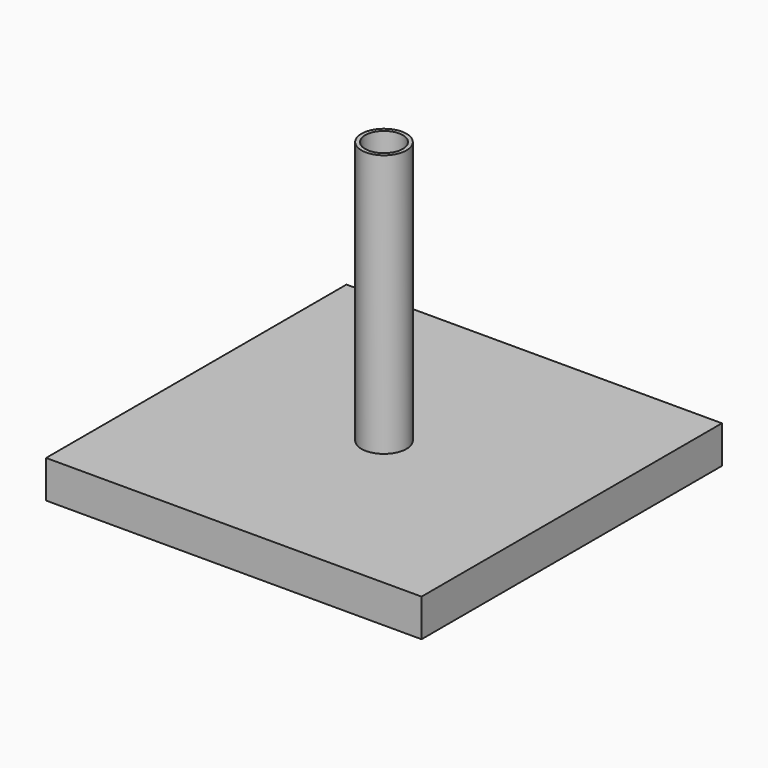
from build123d import *

# Parameters (mm, degrees)
F1_DEPTH = 50
F0_W     = 1
F0_H     = 70


with BuildPart() as f1:
    # F0 (on Front) → F1 (new body, symmetric)
    with BuildSketch(Plane.XZ):
        Polygon((-6, -30), (-50, -30), (-50, -40), (50, -40), (50, -30), (-5, -30), align=None)
    extrude(amount=F1_DEPTH, both=True)


with BuildPart() as f2:
    # F0 (on Front) → F2 (revolve)
    with BuildSketch(Plane.XZ):
        with Locations((-5.5, 5)):
            Rectangle(F0_W, F0_H)
    revolve(axis=Axis((0, 0, 2.372671), (0, 0, -1)))


solid = Compound([f1.part, f2.part])
